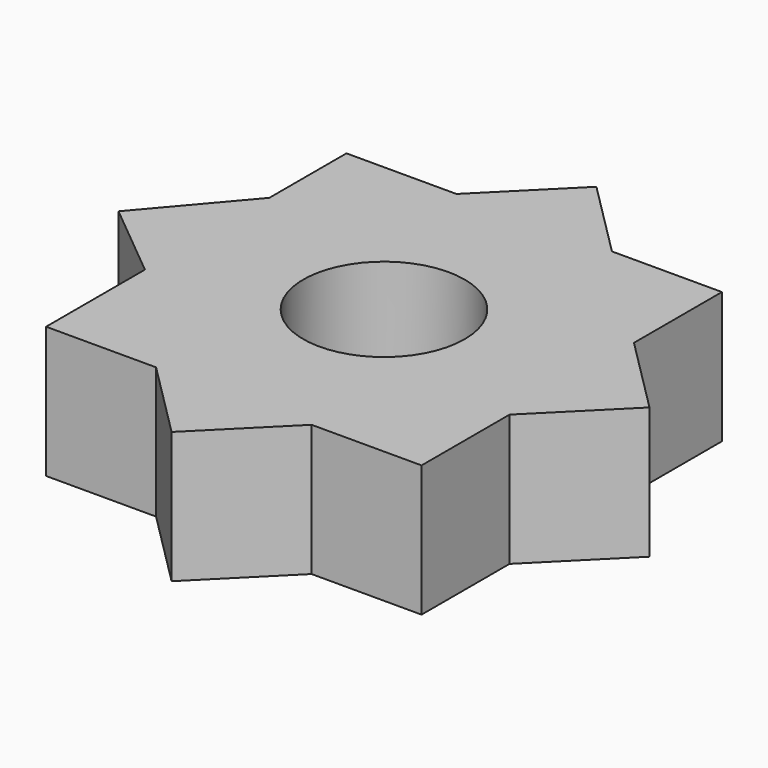
from build123d import *

# Parameters (mm, degrees)
F0_R     = 5
F0_R_2   = 2.15
F1_DEPTH = 3.5


with BuildPart() as f1:
    # F0 (on Top) → F1 (new body)
    with BuildSketch(Plane.XY):
        Polygon((-2.071068, 5), (-5, 5), (-5, 2.433351), (-7.071068, 0), (-5, -1.708784), (-5, -5), (-2.071068, -5), (0, -7.071068), (2.071068, -5), (5, -5), (5, -2.071068), (7.071068, 0), (5, 2.071068), (5, 5), (2.071068, 5), (0, 7.071068), align=None)
        Circle(F0_R, mode=Mode.SUBTRACT)
        Circle(F0_R)
        Circle(F0_R_2, mode=Mode.SUBTRACT)
    extrude(amount=F1_DEPTH)


solid = f1.part
